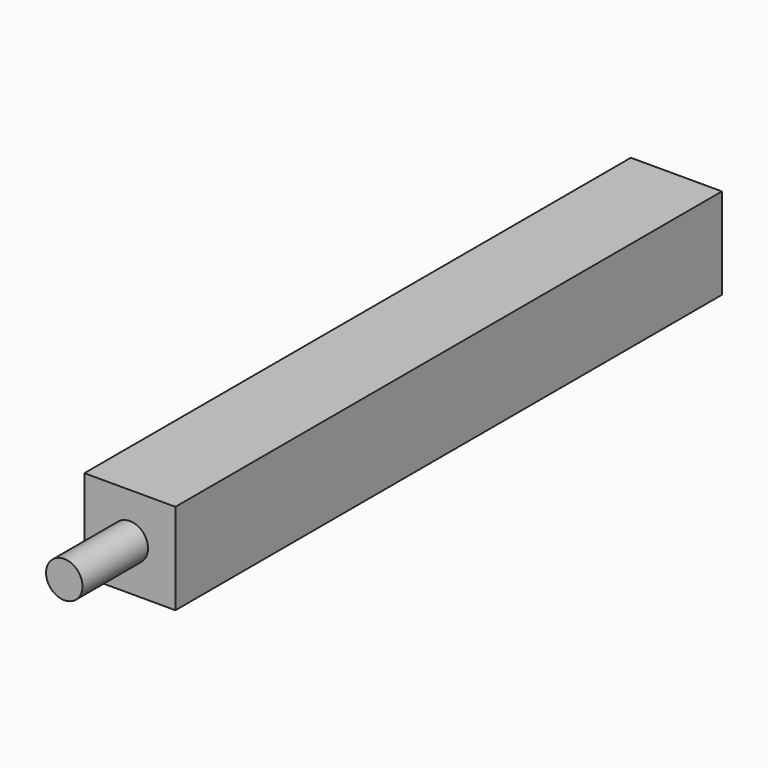
from build123d import *

# Parameters (mm, degrees)
F0_W     = 10
F0_H     = 10
F1_DEPTH = 75
F2_R     = 2
F3_DEPTH = 9


with BuildPart() as f1:
    # F0 (on Front) → F1 (new body)
    with BuildSketch(Plane.XZ):
        with Locations((0.008259, 0)):
            Rectangle(F0_W, F0_H)
    extrude(amount=F1_DEPTH)

    # F2 (on face) → F3 (join)
    with BuildSketch(Plane.XZ.offset(75)):
        Circle(F2_R)
    extrude(amount=F3_DEPTH)


solid = f1.part
